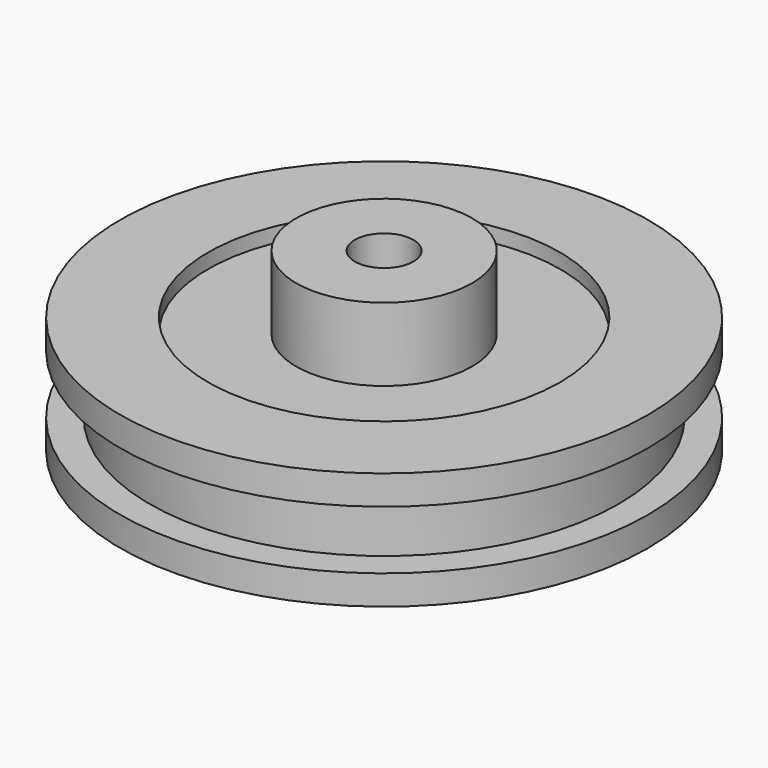
from build123d import *

# Parameters (mm, degrees)
F0_R      = 9
F1_DEPTH  = 4
F2_R      = 6
F3_DEPTH  = 0.5
F4_R      = 6
F5_DEPTH  = 0.5
F6_R      = 3
F7_DEPTH  = 2.5
F8_R      = 3
F9_DEPTH  = 2.5
F10_R     = 1
F11_DEPTH = 25
F13_R     = 15.851527
F13_R_2   = 8
F14_DEPTH = 2


with BuildPart() as f1:
    # F0 (on Top) → F1 (new body)
    with BuildSketch(Plane.XY):
        Circle(F0_R)
        Circle(F0_R)
    extrude(amount=F1_DEPTH)

    # F2 (on face) → F3 (cut)
    with BuildSketch(Plane(origin=(0, 0, 0), x_dir=(1, 0, 0), z_dir=(0, 0, -1))):
        Circle(F2_R)
    extrude(amount=-F3_DEPTH, mode=Mode.SUBTRACT)

    # F4 (on face) → F5 (cut)
    with BuildSketch(Plane.XY.offset(4)):
        Circle(F4_R)
    extrude(amount=-F5_DEPTH, mode=Mode.SUBTRACT)

    # F6 (on face) → F7 (join)
    with BuildSketch(Plane(origin=(0, 0, 0.5), x_dir=(1, 0, 0), z_dir=(0, 0, -1))):
        Circle(F6_R)
    extrude(amount=F7_DEPTH)

    # F8 (on face) → F9 (join)
    with BuildSketch(Plane.XY.offset(3.5)):
        Circle(F8_R)
    extrude(amount=F9_DEPTH)

    # F10 (on face) → F11 (cut)
    with BuildSketch(Plane.XY.offset(6)):
        Circle(F10_R)
    extrude(amount=-F11_DEPTH, mode=Mode.SUBTRACT)

    # F13 (on offset) → F14 (cut)
    with BuildSketch(Plane.XY.offset(1)):
        Circle(F13_R)
        Circle(F13_R_2, mode=Mode.SUBTRACT)
    extrude(amount=F14_DEPTH, mode=Mode.SUBTRACT)


solid = f1.part
